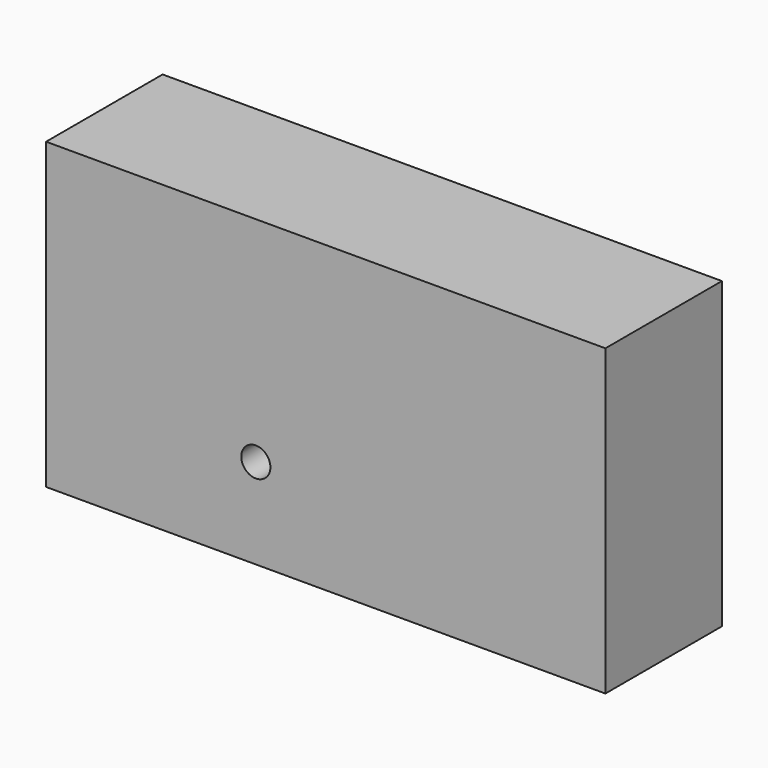
from build123d import *

# Parameters (mm, degrees)
F1_DEPTH = 3.175
F2_T     = -2.54
F3_D     = 1.27
F3_DEPTH = 3.176
F4_D     = 1.27


with BuildPart() as f1:
    # F0 (on Front) → F1 (new body, symmetric)
    with BuildSketch(Plane.XZ):
        Polygon((0, 46.7720143497), (0, 33.5211828351), (6.096, 33.5211828351), (9.144, 33.5211828351), (12.192, 33.5211828351), (24.384, 33.5211828351), (24.384, 46.7720143497), align=None)
    extrude(amount=F1_DEPTH, both=True)

    # F2
    f2_openings = [f1.faces().sort_by_distance(p)[0] for p in [
        (12.192, 0, 33.521183),
    ]]
    offset(amount=F2_T, openings=f2_openings)

    # F3 (through all, one way)
    with BuildSketch(Plane.XZ):
        with Locations((9.144, 37.4545268714)):
            Circle(F3_D / 2)
    extrude(amount=-F3_DEPTH, mode=Mode.SUBTRACT)

    # F4 (through all)
    with Locations(Plane(origin=(0, 0, 0), x_dir=(1, 0, 0), z_dir=(0, 1, 0))):
        with Locations((9.144, -37.4545268714)):
            Hole(F4_D / 2)


solid = f1.part
